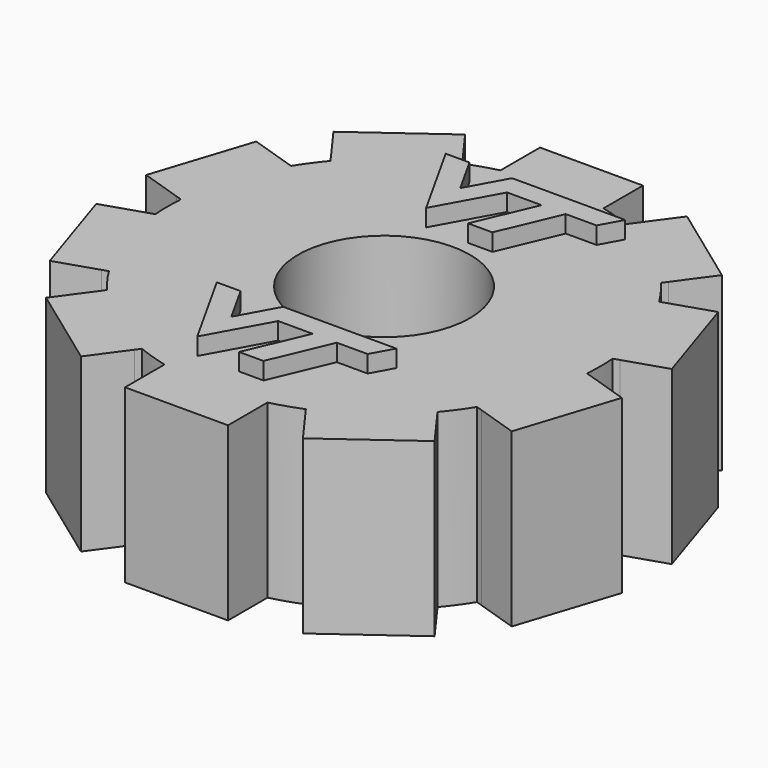
from build123d import *

# Parameters (mm, degrees)
F0_R     = 3.175
F1_DEPTH = 6.35
F3_DEPTH = 0.635


with BuildPart() as f1:
    # F0 (on Top) → F1 (new body)
    with BuildSketch(Plane.XY):
        with BuildLine():
            Line((-6.243237, 5.348631), (-6.107624, 5.161976))
            ThreePointArc((-6.107624, 5.161976), (-6.472362, 4.696551), (-6.801712, 4.205447))
            Line((-6.801712, 4.205447), (-7.01898, 4.276041))
            Line((-7.01898, 4.276041), (-8.536659, 4.769165))
            Line((-8.536659, 4.769165), (-9.710663, 1.150007))
            Line((-9.710663, 1.150007), (-8.194731, 0.657451))
            Line((-8.194731, 0.657451), (-7.975305, 0.586155))
            ThreePointArc((-7.975305, 0.586155), (-7.996815, -0.004769), (-7.9746, -0.595668))
            Line((-7.9746, -0.595668), (-8.191868, -0.666263))
            Line((-8.191868, -0.666263), (-9.709547, -1.159387))
            Line((-9.709547, -1.159387), (-8.532048, -4.777409))
            Line((-8.532048, -4.777409), (-7.016117, -4.284853))
            Line((-7.016117, -4.284853), (-6.796691, -4.213557))
            ThreePointArc((-6.796691, -4.213557), (-6.466756, -4.704268), (-6.101462, -5.169258))
            Line((-6.101462, -5.169258), (-6.235741, -5.354077))
            Line((-6.235741, -5.354077), (-7.173718, -6.645092))
            Line((-7.173718, -6.645092), (-4.094482, -8.880017))
            Line((-4.094482, -8.880017), (-3.157584, -7.590489))
            Line((-3.157584, -7.590489), (-3.021972, -7.403834))
            ThreePointArc((-3.021972, -7.403834), (-2.466616, -7.606897), (-1.897773, -7.768367))
            Line((-1.897773, -7.768367), (-1.897773, -7.996816))
            Line((-1.897773, -7.996816), (-1.897773, -9.592598))
            Line((-1.897773, -9.592598), (1.907038, -9.590761))
            Line((1.907038, -9.590761), (1.907038, -7.996816))
            Line((1.907038, -7.996816), (1.907038, -7.766098))
            ThreePointArc((1.907038, -7.766098), (2.475688, -7.603949), (3.030801, -7.400224))
            Line((3.030801, -7.400224), (3.16508, -7.585043))
            Line((3.16508, -7.585043), (4.103057, -8.876058))
            Line((4.103057, -8.876058), (7.180134, -6.63816))
            Line((7.180134, -6.63816), (6.243237, -5.348631))
            Line((6.243237, -5.348631), (6.107624, -5.161976))
            ThreePointArc((6.107624, -5.161976), (6.472362, -4.696551), (6.801712, -4.205447))
            Line((6.801712, -4.205447), (7.01898, -4.276041))
            Line((7.01898, -4.276041), (8.536659, -4.769165))
            Line((8.536659, -4.769165), (9.710663, -1.150007))
            Line((9.710663, -1.150007), (8.194731, -0.657451))
            Line((8.194731, -0.657451), (7.975305, -0.586155))
            ThreePointArc((7.975305, -0.586155), (7.996815, 0.004769), (7.9746, 0.595668))
            Line((7.9746, 0.595668), (8.191868, 0.666263))
            Line((8.191868, 0.666263), (9.709547, 1.159387))
            Line((9.709547, 1.159387), (8.532048, 4.777409))
            Line((8.532048, 4.777409), (7.016117, 4.284853))
            Line((7.016117, 4.284853), (6.796691, 4.213557))
            ThreePointArc((6.796691, 4.213557), (6.466756, 4.704268), (6.101462, 5.169258))
            Line((6.101462, 5.169258), (6.235741, 5.354077))
            Line((6.235741, 5.354077), (7.173718, 6.645092))
            Line((7.173718, 6.645092), (4.094482, 8.880017))
            Line((4.094482, 8.880017), (3.157584, 7.590489))
            Line((3.157584, 7.590489), (3.021972, 7.403834))
            ThreePointArc((3.021972, 7.403834), (2.466616, 7.606897), (1.897773, 7.768367))
            Line((1.897773, 7.768367), (1.897773, 7.996816))
            Line((1.897773, 7.996816), (1.897773, 9.592598))
            Line((1.897773, 9.592598), (-1.907038, 9.590761))
            Line((-1.907038, 9.590761), (-1.907038, 7.996816))
            Line((-1.907038, 7.996816), (-1.907038, 7.766098))
            ThreePointArc((-1.907038, 7.766098), (-2.475688, 7.603949), (-3.030801, 7.400224))
            Line((-3.030801, 7.400224), (-3.16508, 7.585043))
            Line((-3.16508, 7.585043), (-4.103057, 8.876058))
            Line((-4.103057, 8.876058), (-7.180134, 6.63816))
            Line((-7.180134, 6.63816), (-6.243237, 5.348631))
        make_face()
        Circle(F0_R, mode=Mode.SUBTRACT)
    extrude(amount=F1_DEPTH)

    # F2 (on face) → F3 (join)
    with BuildSketch(Plane.XY.offset(6.35)):
        Polygon((-2.151463, 6.638584), (-3.030801, 6.63816), (-1.354291, 3.640304), (-0.13337, 5.854254), (1.136369, 5.854867), (0.194719, 3.640106), (1.091522, 3.640106), (2.033314, 5.855201), (3.169588, 5.85575), (3.602625, 6.640995), (2.839816, 6.640995), (0.299816, 6.639768), (-0.577028, 6.639345), (-1.358951, 5.221451), align=None)
        Polygon((-2.288674, -3.76517), (-3.168012, -3.765595), (-1.491502, -6.763451), (-0.27058, -4.549501), (0.999159, -4.548888), (0.057508, -6.763649), (0.954311, -6.763649), (1.896103, -4.548553), (3.032377, -4.548005), (3.465414, -3.76276), (2.702605, -3.76276), (0.162605, -3.763986), (-0.714239, -3.76441), (-1.496161, -5.182303), align=None)
    extrude(amount=F3_DEPTH)


solid = f1.part
